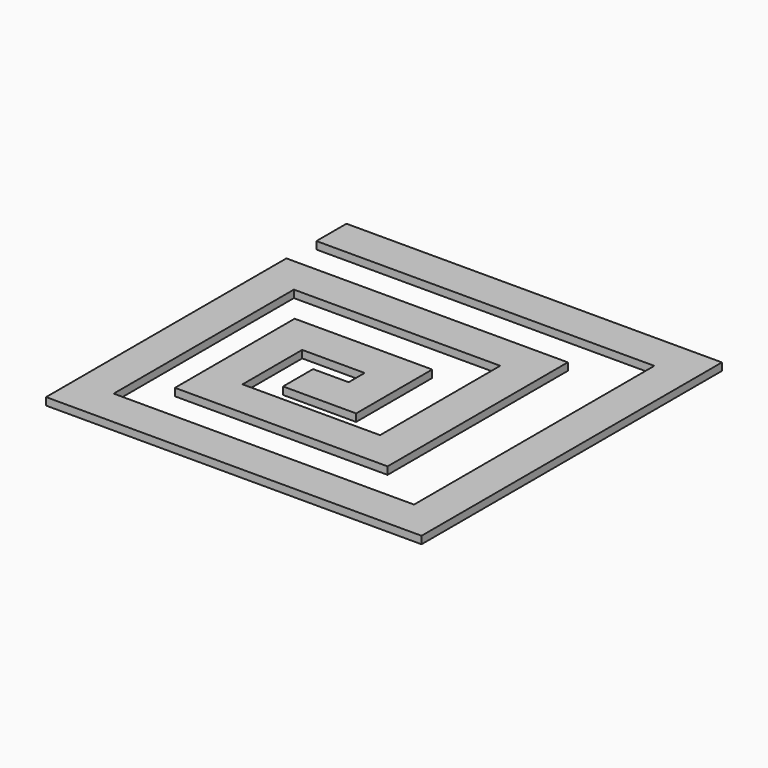
from build123d import *

# Parameters (mm, degrees)
F1_DEPTH = 3


with BuildPart() as f1:
    # F0 (on Top) → F1 (new body)
    with BuildSketch(Plane.XY):
        Polygon((75, 75), (-75, 75), (-75, 60), (60, 60), (60, -60), (-60, -60), (-60, 30), (22.428517, 30), (22.428517, -30), (-32.523828, -30), (-32.523828, -0.200424), (-7.571483, -0.200424), (-7.571483, -8.200424), (-21.768509, -8.200424), (-21.768509, -23.200424), (7.428517, -23.200424), (7.428517, 14.799576), (-47.523828, 14.799576), (-47.523828, -45), (37.428517, -45), (37.428517, 45), (-75, 45), (-75, -75), (75, -75), align=None)
    extrude(amount=F1_DEPTH)


solid = f1.part
